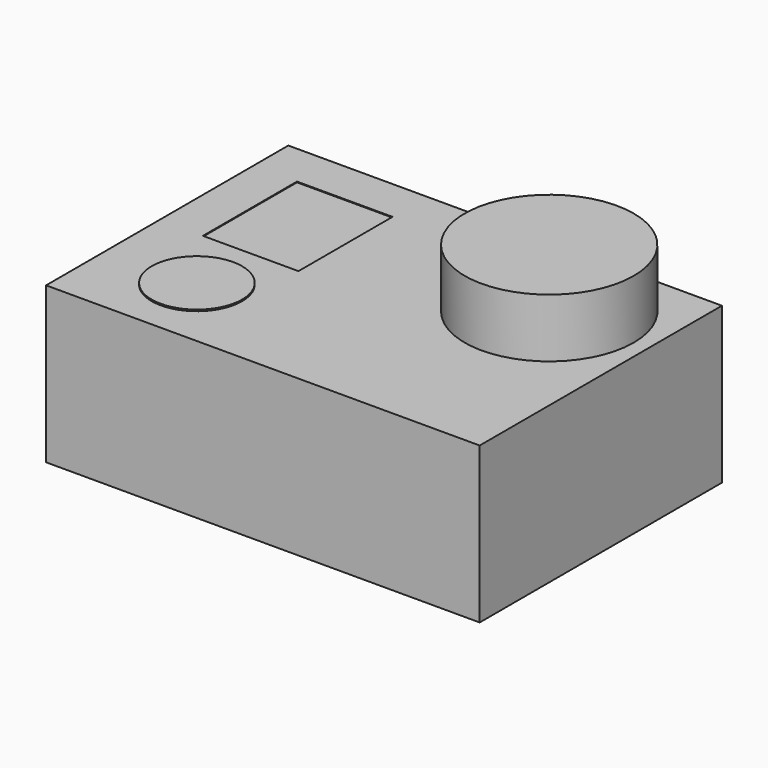
from build123d import *

# Parameters (mm, degrees)
F0_W     = 59
F0_H     = 41.2
F1_DEPTH = 21.2
F2_R     = 11.5
F3_DEPTH = 8
F4_R     = 6.4
F5_DEPTH = 0.1
F6_W     = 13
F6_H     = 16
F7_DEPTH = 0.1
F8_R     = 6.15
F9_DEPTH = 0.2


with BuildPart() as f1:
    # F0 (on Top) → F1 (new body)
    with BuildSketch(Plane.XY):
        Rectangle(F0_W, F0_H)
    extrude(amount=F1_DEPTH)

    # F2 (on face) → F3 (join)
    with BuildSketch(Plane.XY.offset(21.2)):
        with Locations((16, 8.1)):
            Circle(F2_R)
    extrude(amount=F3_DEPTH)

    # F4 (on face) → F5 (join)
    with BuildSketch(Plane(origin=(0, 20.6, 0), x_dir=(-1, 0, 0), z_dir=(0, 1, 0))):
        with Locations((17.8, 11.7)):
            Circle(F4_R)
    extrude(amount=F5_DEPTH)

    # F6 (on face) → F7 (cut)
    with BuildSketch(Plane.XY.offset(21.2)):
        with Locations((-17.1, 6.7)):
            Rectangle(F6_W, F6_H)
    extrude(amount=-F7_DEPTH, mode=Mode.SUBTRACT)

    # F8 (on face) → F9 (join)
    with BuildSketch(Plane.XY.offset(21.2)):
        with Locations((-17.1, -10.45)):
            Circle(F8_R)
    extrude(amount=F9_DEPTH)


solid = f1.part
